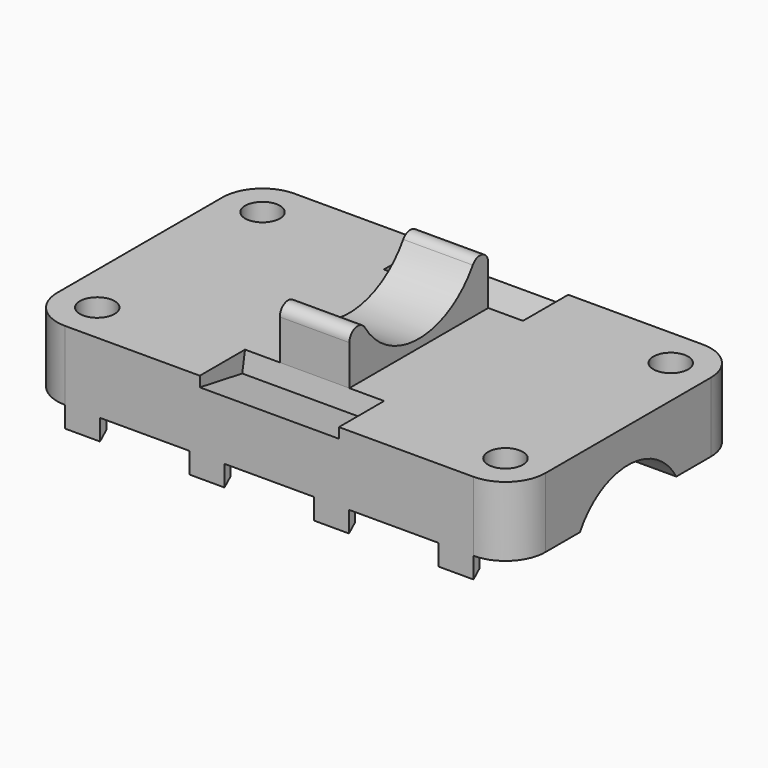
from build123d import *

# Parameters (mm, degrees)
SKETCH_R                     = 2.5
PAD_DEPTH                    = 10
SKETCH001_W                  = 20
SKETCH001_H                  = 2.91
POCKET_DEPTH                 = 8
PAD001_DEPTH                 = 5
SKETCH003_R                  = 10
POCKET001_DEPTH              = 70.191
PAD002_DEPTH                 = 5
PAD002_LINEARPATTERN_2_DEPTH = 5
PAD002_LINEARPATTERN_3_DEPTH = 5
PAD002_LINEARPATTERN_4_DEPTH = 5


with BuildPart() as part:
    # Sketch → Pad (new body)
    with BuildSketch(Plane.XY):
        with BuildLine():
            ThreePointArc((-29.345, 20.6), (-33.410864, 18.915864), (-35.095, 14.85))
            Line((-35.095, -14.85), (-35.095, 14.85))
            ThreePointArc((-35.095, -14.85), (-33.410864, -18.915864), (-29.345, -20.6))
            Line((29.345, -20.6), (-29.345, -20.6))
            ThreePointArc((29.345, -20.6), (33.410864, -18.915864), (35.095, -14.85))
            Line((35.095, 14.85), (35.095, -14.85))
            ThreePointArc((35.095, 14.85), (33.410864, 18.915864), (29.345, 20.6))
            Line((-29.345, 20.6), (29.345, 20.6))
        make_face()
        with Locations((-29.345, 14.85)):
            Circle(SKETCH_R, mode=Mode.SUBTRACT)
        with Locations((-29.345, -14.85)):
            Circle(SKETCH_R, mode=Mode.SUBTRACT)
        with Locations((29.345, -14.85)):
            Circle(SKETCH_R, mode=Mode.SUBTRACT)
        with Locations((29.345, 14.85)):
            Circle(SKETCH_R, mode=Mode.SUBTRACT)
    extrude(amount=PAD_DEPTH)

    # Sketch001 (on DatumPlane) → Pocket (cut)
    with BuildSketch(Plane(origin=(0, -20.6, 10), x_dir=(1, 0, 0), z_dir=(0, -0.984808, 0.173648))):
        Rectangle(SKETCH001_W, SKETCH001_H)
    pocket = extrude(amount=-POCKET_DEPTH, mode=Mode.SUBTRACT)

    # Mirrored: Pocket across XZ
    add(pocket.mirror(Plane.XZ), mode=Mode.SUBTRACT)

    # Sketch002 (on DatumPlane) → Pad001 (join, symmetric)
    with BuildSketch(Plane(origin=(0, -12.476587, 10), x_dir=(0, 1, 0), z_dir=(1, 0, 0))):
        with BuildLine():
            Line((0, 0), (0, 5.76))
            ThreePointArc((2.772402, 6.554351), (1.086843, 7.201978), (0, 5.76))
            ThreePointArc((2.772402, 6.554351), (12.476587, 1.172601), (22.180772, 6.554351))
            ThreePointArc((24.953174, 5.76), (23.866331, 7.201978), (22.180772, 6.554351))
            Line((24.953174, 5.76), (24.953174, 0))
            Line((0, 0), (24.953174, 0))
        make_face()
    extrude(amount=PAD001_DEPTH, both=True)

    # Sketch003 (on Face14 of Pad001) → Pocket001 (cut, through all)
    with BuildSketch(Plane.YZ.offset(35.095)):
        with Locations((0, -5)):
            Circle(SKETCH003_R)
    extrude(amount=-POCKET001_DEPTH, mode=Mode.SUBTRACT)

    # Sketch004 (on DatumPlane) → Pad002 (join)
    with BuildSketch(Plane(origin=(-29.345, 20.6, 0), x_dir=(0, 1, 0), z_dir=(1, 0, 0))):
        Polygon((0, 0), (0, -3), (-1.12, -2.002202), (-1.12, 0), align=None)
    pad002 = extrude(amount=PAD002_DEPTH)

    # Sketch004 LinearPattern 2 → Pad002 LinearPattern 2 (add)
    with BuildSketch(Plane(origin=(-11.448333, 20.6, 0), x_dir=(0, 1, 0), z_dir=(1, 0, 0))):
        Polygon((0, 0), (0, -3), (-1.12, -2.002202), (-1.12, 0), align=None)
    pad002_linearpattern_2 = extrude(amount=PAD002_LINEARPATTERN_2_DEPTH)

    # Sketch004 LinearPattern 3 → Pad002 LinearPattern 3 (add)
    with BuildSketch(Plane(origin=(6.448333, 20.6, 0), x_dir=(0, 1, 0), z_dir=(1, 0, 0))):
        Polygon((0, 0), (0, -3), (-1.12, -2.002202), (-1.12, 0), align=None)
    pad002_linearpattern_3 = extrude(amount=PAD002_LINEARPATTERN_3_DEPTH)

    # Sketch004 LinearPattern 4 → Pad002 LinearPattern 4 (add)
    with BuildSketch(Plane(origin=(24.345, 20.6, 0), x_dir=(0, 1, 0), z_dir=(1, 0, 0))):
        Polygon((0, 0), (0, -3), (-1.12, -2.002202), (-1.12, 0), align=None)
    pad002_linearpattern_4 = extrude(amount=PAD002_LINEARPATTERN_4_DEPTH)

    # Mirrored001: Pad002, Pad002 LinearPattern 2, Pad002 LinearPattern 3, Pad002 LinearPattern 4 across XZ
    add(pad002.mirror(Plane.XZ))
    add(pad002_linearpattern_2.mirror(Plane.XZ))
    add(pad002_linearpattern_3.mirror(Plane.XZ))
    add(pad002_linearpattern_4.mirror(Plane.XZ))


solid = part.part
